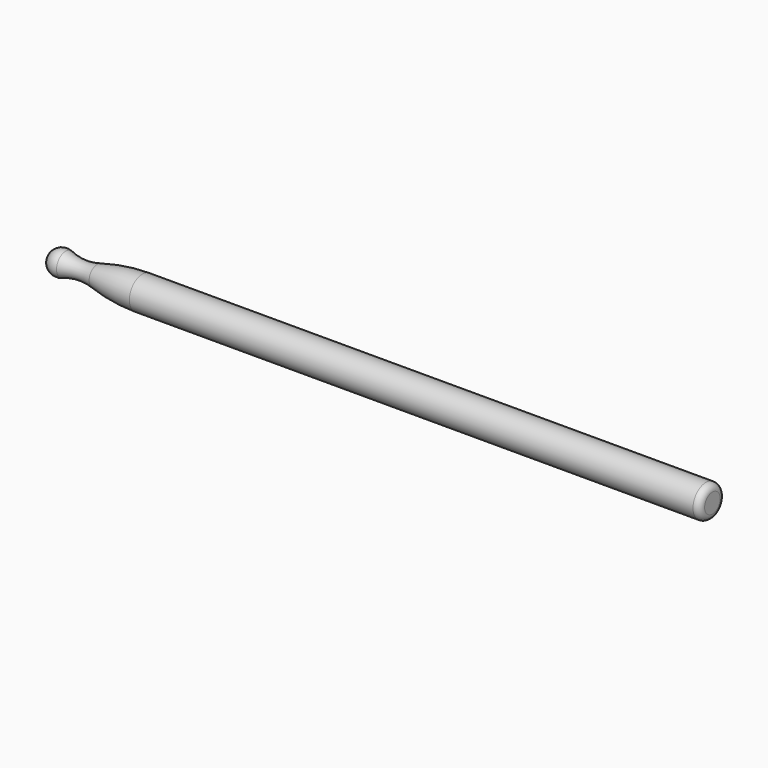
from build123d import *


with BuildPart() as f1:
    # F0 (on Top) → F1 (revolve)
    with BuildSketch(Plane.XY):
        with BuildLine():
            ThreePointArc((76.5, 3), (75.914214, 4.414214), (74.5, 5))
            Line((74.5, 5), (-100, 5))
            ThreePointArc((-100, 5), (-107.038979, 4.53376), (-113.954969, 3.143188))
            ThreePointArc((-113.954969, 3.143188), (-118.875278, 2.587378), (-123.736208, 3.530628))
            ThreePointArc((-123.736208, 3.530628), (-127.159083, 3.066082), (-128.75, 0))
            Line((-128.75, 0), (76.5, 0))
            Line((76.5, 0), (76.5, 3))
        make_face()
    revolve(axis=Axis((-26.125, 0, 0), (1, 0, 0)))


solid = f1.part
